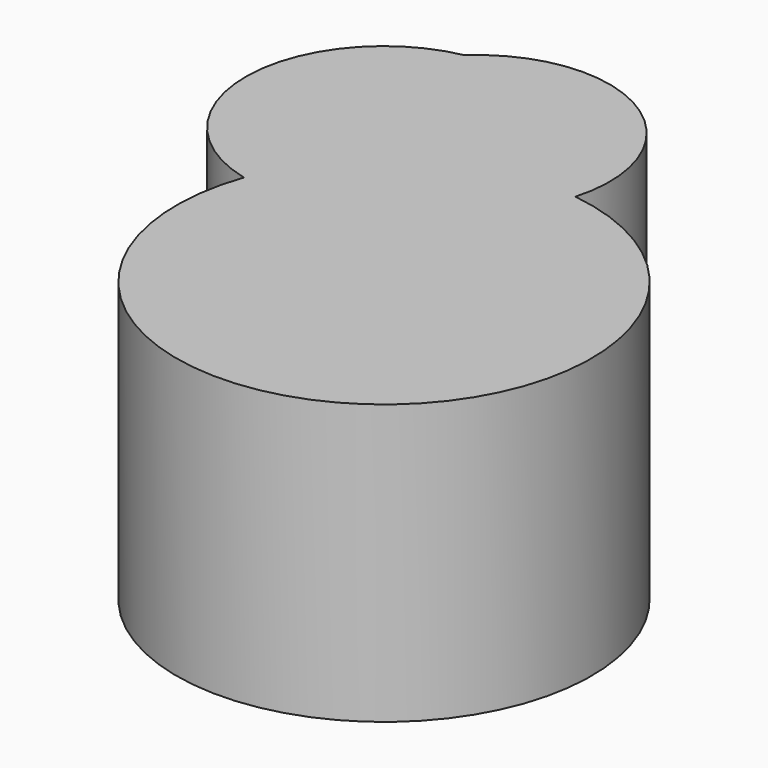
from build123d import *

# Parameters (mm, degrees)
F1_DEPTH = 65.278


with BuildPart() as f1:
    # F0 (on Top) → F1 (new body)
    with BuildSketch(Plane.XY):
        with BuildLine():
            ThreePointArc((44.3514, 0.54517), (30.845134, 35.324867), (-6.276648, 31.58055))
            ThreePointArc((-6.276648, 31.58055), (-32.191492, 0.659764), (-7.565319, -31.296859))
            ThreePointArc((-7.565319, -31.296859), (63.434336, -88.813258), (44.3514, 0.54517))
        make_face()
    extrude(amount=F1_DEPTH)


solid = f1.part
